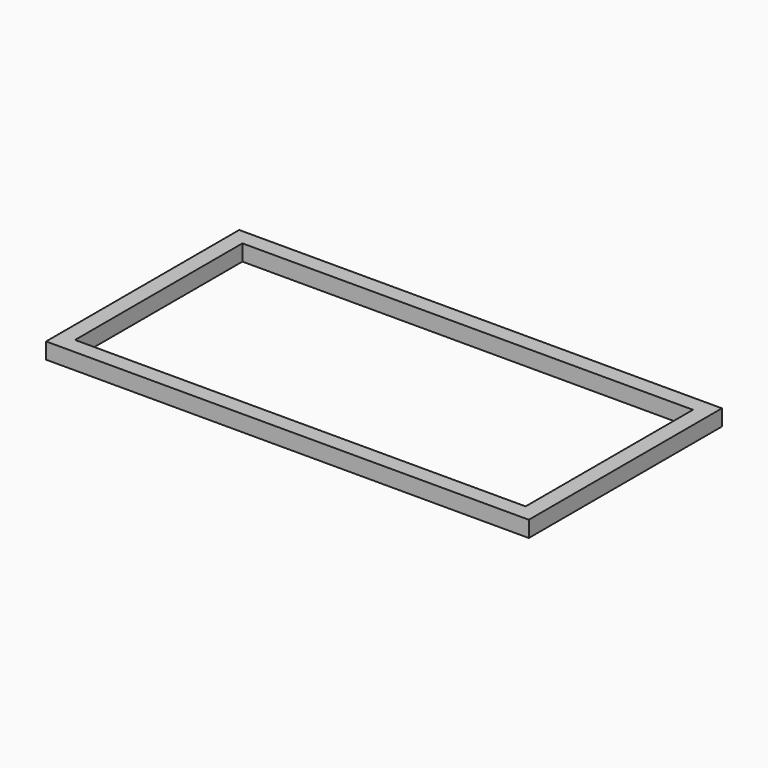
from build123d import *

# Parameters (mm, degrees)
F0_W     = 1400
F0_H     = 650
F1_DEPTH = 25


with BuildPart() as f1:
    # F0 (on Top) → F1 (new body, symmetric)
    with BuildSketch(Plane.XY):
        Polygon((-750, 375), (-750, -375), (-359.724497, -375), (-309.724497, -375), (0, -375), (309.724497, -375), (359.724497, -375), (522.343877, -375), (750, -375), (750, 375), align=None)
        Rectangle(F0_W, F0_H, mode=Mode.SUBTRACT)
    extrude(amount=F1_DEPTH, both=True)


solid = f1.part
